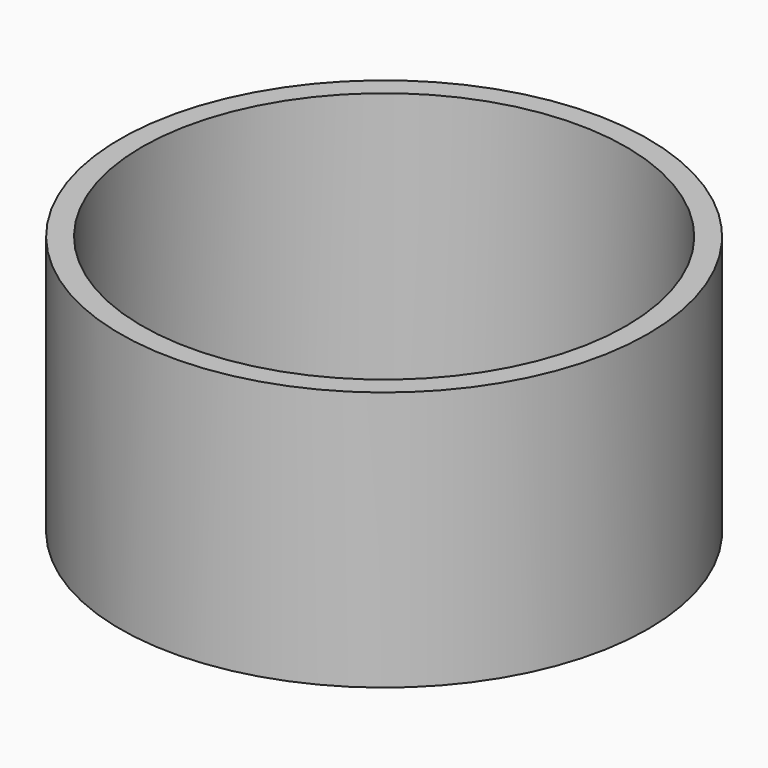
from build123d import *

# Parameters (mm, degrees)
F0_R     = 50.8
F0_R_2   = 46.609
F1_DEPTH = 50


with BuildPart() as f1:
    # F0 (on Top) → F1 (new body)
    with BuildSketch(Plane.XY):
        Circle(F0_R)
        Circle(F0_R_2, mode=Mode.SUBTRACT)
        Circle(F0_R)
        Circle(F0_R_2, mode=Mode.SUBTRACT)
    extrude(amount=F1_DEPTH)


solid = f1.part
